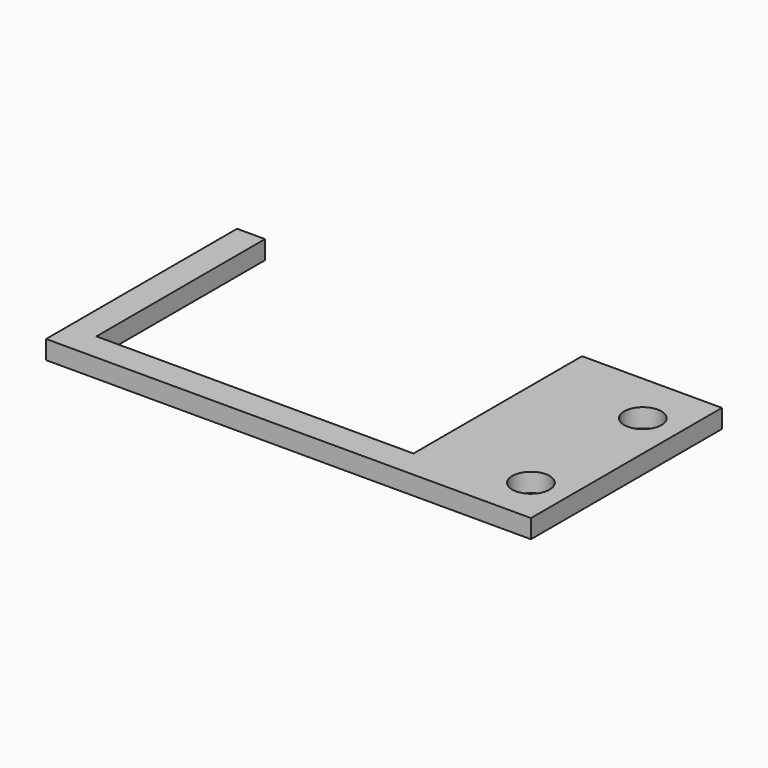
from build123d import *

# Parameters (mm, degrees)
CYLINDER008_R     = 2
CYLINDER008_DEPTH = 4
CYLINDER015_R     = 2
CYLINDER015_DEPTH = 4
BOX006_W          = 34
BOX006_H          = 23
BOX006_DEPTH      = 2
BOX003_W          = 52
BOX003_H          = 25.6
BOX003_DEPTH      = 2


with BuildPart() as button_hole:
    # Cylinder008 → Cylinder008 (new body)
    with BuildSketch(Plane(origin=(50, 7, 38), x_dir=(1, 0, 0), z_dir=(0, 0, 1))):
        Circle(CYLINDER008_R)
    extrude(amount=CYLINDER008_DEPTH)


with BuildPart() as button_hole001:
    # Cylinder015 → Cylinder015 (new body)
    with BuildSketch(Plane(origin=(50, 22, 38), x_dir=(1, 0, 0), z_dir=(0, 0, 1))):
        Circle(CYLINDER015_R)
    extrude(amount=CYLINDER015_DEPTH)


with BuildPart() as fusion004:
    # Box006 → Box006 (new body)
    with BuildSketch(Plane(origin=(5, 5, 40), x_dir=(1, 0, 0), z_dir=(0, 0, 1))):
        with Locations((17, 11.5)):
            Rectangle(BOX006_W, BOX006_H)
    extrude(amount=BOX006_DEPTH)

    # Fusion004: union button_hole, button_hole001
    add(button_hole.part)
    add(button_hole001.part)


with BuildPart() as cover:
    # Box003 → Box003 (new body)
    with BuildSketch(Plane(origin=(2, 2, 40), x_dir=(1, 0, 0), z_dir=(0, 0, 1))):
        with Locations((26, 12.8)):
            Rectangle(BOX003_W, BOX003_H)
    extrude(amount=BOX003_DEPTH)

    # Cut: cut Fusion004
    add(fusion004.part, mode=Mode.SUBTRACT)


solid = cover.part
